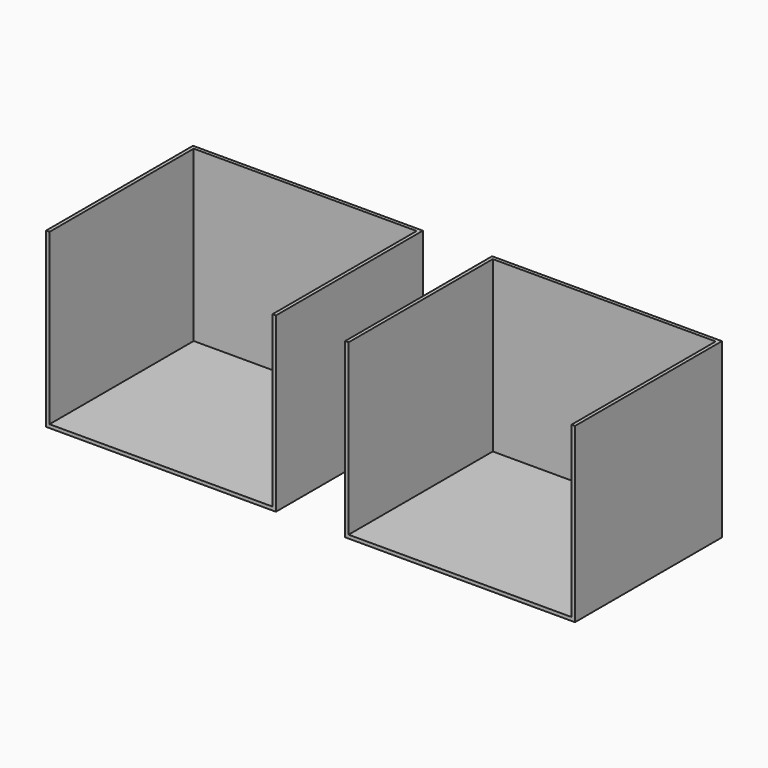
from build123d import *

# Parameters (mm, degrees)
F0_W     = 168.65819
F0_H     = 126.804486
F1_DEPTH = 134.793406
F2_T     = -2.54


with BuildPart() as f1:
    # F0 (on Front) → F1 (new body)
    with BuildSketch(Plane.XZ):
        with Locations((-23.772966, 63.402243)):
            Rectangle(F0_W, F0_H)
    extrude(amount=-F1_DEPTH)

    # F2
    f2_openings = [f1.faces().sort_by_distance(p)[0] for p in [
        (-23.772966, 0, 63.402243),
        (-23.772966, 67.396703, 126.804486),
    ]]
    offset(amount=F2_T, openings=f2_openings)


with BuildPart() as f4_1:
    # F4: instance of F1
    add(f1.part.mirror(Plane(origin=(-133.502061, 67.396703, 63.402243), x_dir=(0, -1, 0), z_dir=(-1, 0, 0))))


solid = Compound([f1.part, f4_1.part])
